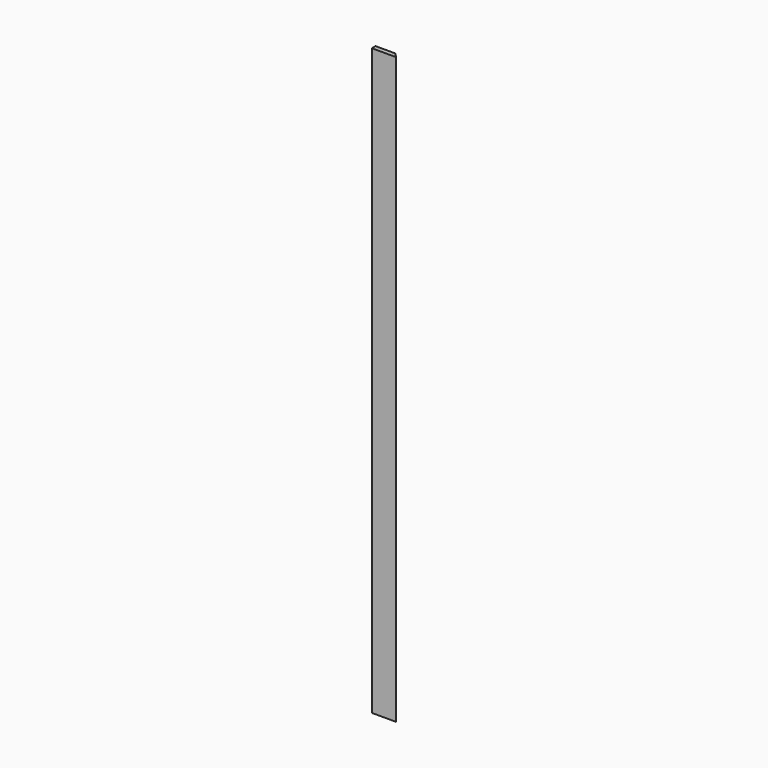
from build123d import *

# Parameters (mm, degrees)
F0_W     = 25.4
F0_H     = 609.6
F1_DEPTH = 4.7752
F3_DEPTH = 609.601


with BuildPart() as f1:
    # F0 (on Front) → F1 (new body)
    with BuildSketch(Plane.XZ):
        Rectangle(F0_W, F0_H)
    extrude(amount=F1_DEPTH)

    # F2 (on face) → F3 (cut, through all)
    with BuildSketch(Plane.XY.offset(304.8)):
        Polygon((7.9248, 0), (12.7, -4.7752), (12.7, 0), align=None)
    extrude(amount=-F3_DEPTH, mode=Mode.SUBTRACT)


solid = f1.part
